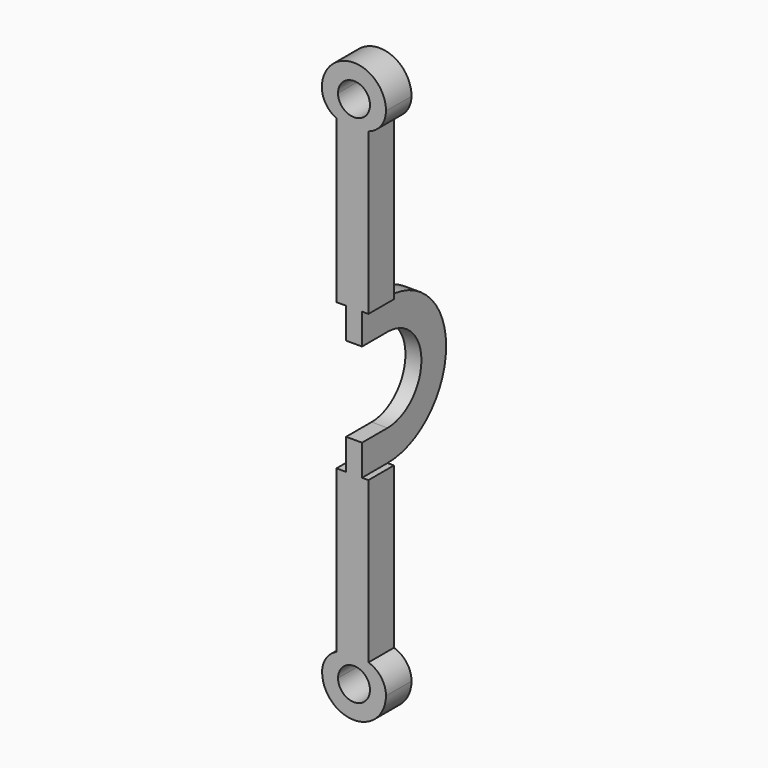
from build123d import *

# Parameters (mm, degrees)
F0_W      = 10
F0_H      = 50
F0_H_2    = 9.678417
F1_DEPTH  = 4
F2_DEPTH  = 5
F4_DEPTH  = 10
F5_DEPTH  = 5
F6_DEPTH  = 10
F7_DEPTH  = 4
F9_DEPTH  = 10
F10_DEPTH = 10
F11_DEPTH = 10
F8_W      = 2
F8_H      = 2.450932
F8_W_2    = 3
F12_DEPTH = 10


with BuildPart() as f1:
    # F0 (on Right) → F1 (new body)
    with BuildSketch(Plane.YZ):
        with BuildLine():
            ThreePointArc((0, 0), (22.928417, 22.928417), (0, 45.856834))
            Line((0, 45.856834), (0, 36.178417))
            ThreePointArc((0, 36.178417), (13.25, 22.928417), (0, 9.678417))
            Line((0, 9.678417), (0, 0))
        make_face()
        with Locations((-5, -25)):
            Rectangle(F0_W, F0_H)
        with Locations((-5, 4.839208)):
            Rectangle(F0_W, F0_H_2)
        with Locations((-5, 41.017625)):
            Rectangle(F0_W, F0_H_2)
        with Locations((-5, 70.856834)):
            Rectangle(F0_W, F0_H)
    extrude(amount=F1_DEPTH)

    # F0 (on Right) → F2 (join)
    with BuildSketch(Plane.YZ):
        with Locations((-5, 70.856834)):
            Rectangle(F0_W, F0_H)
        with Locations((-5, -25)):
            Rectangle(F0_W, F0_H)
        with BuildLine():
            ThreePointArc((0, 0), (22.928417, 22.928417), (0, 45.856834))
            Line((0, 45.856834), (0, 36.178417))
            ThreePointArc((0, 36.178417), (13.25, 22.928417), (0, 9.678417))
            Line((0, 9.678417), (0, 0))
        make_face()
    extrude(amount=F2_DEPTH)

    # F3 (on Front) → F4 (join, through all)
    with BuildSketch(Plane.XZ):
        with BuildLine():
            Line((-7.4979, -57.686251), (-2.503859, -57.686251))
            ThreePointArc((-2.503859, -57.686251), (2.489394, -52.692998), (7.482647, -57.686251))
            Line((7.482647, -57.686251), (12.501129, -57.686251))
            ThreePointArc((12.501129, -57.686251), (10.28152, -52.251641), (4.882479, -49.946863))
            Line((4.882479, -49.946863), (0, -49.946863))
            ThreePointArc((0, -49.946863), (-5.336135, -52.278896), (-7.4979, -57.686251))
        make_face()
        with BuildLine():
            Line((12.500054, 103.57853), (7.508172, 103.57853))
            ThreePointArc((7.508172, 103.57853), (2.492773, 98.583596), (-2.522626, 103.57853))
            Line((-2.522626, 103.57853), (-7.575432, 103.57853))
            ThreePointArc((-7.575432, 103.57853), (-5.361949, 98.175121), (0, 95.863014))
            Line((0, 95.863014), (5.021239, 95.826961))
            ThreePointArc((5.021239, 95.826961), (10.295439, 98.221958), (12.500054, 103.57853))
        make_face()
        with BuildLine():
            ThreePointArc((-2.522626, 103.57853), (2.492773, 108.59393), (7.508172, 103.57853))
            Line((7.508172, 103.57853), (12.500054, 103.57853))
            ThreePointArc((12.500054, 103.57853), (2.462311, 113.635186), (-7.575432, 103.57853))
            Line((-7.575432, 103.57853), (-2.522626, 103.57853))
        make_face()
    extrude(amount=F4_DEPTH)

    # F0 (on Right) → F5 (join)
    with BuildSketch(Plane.YZ):
        with Locations((-5, 4.839208)):
            Rectangle(F0_W, F0_H_2)
        with BuildLine():
            ThreePointArc((0, 0), (22.928417, 22.928417), (0, 45.856834))
            Line((0, 45.856834), (0, 36.178417))
            ThreePointArc((0, 36.178417), (13.25, 22.928417), (0, 9.678417))
            Line((0, 9.678417), (0, 0))
        make_face()
        with Locations((-5, 41.017625)):
            Rectangle(F0_W, F0_H_2)
        with Locations((-5, 70.856834)):
            Rectangle(F0_W, F0_H)
        with Locations((-5, -25)):
            Rectangle(F0_W, F0_H)
    extrude(amount=F5_DEPTH)

    # F3 (on Front) → F6 (join)
    with BuildSketch(Plane.XZ):
        with BuildLine():
            ThreePointArc((7.482647, -57.686251), (2.489394, -62.699619), (-2.503859, -57.686251))
            Line((-2.503859, -57.686251), (-7.4979, -57.686251))
            ThreePointArc((-7.4979, -57.686251), (2.501614, -67.627111), (12.501129, -57.686251))
            Line((12.501129, -57.686251), (7.482647, -57.686251))
        make_face()
    extrude(amount=F6_DEPTH)

    # F0 (on Right) → F7 (join)
    with BuildSketch(Plane.YZ):
        with BuildLine():
            ThreePointArc((0, 0), (22.928417, 22.928417), (0, 45.856834))
            Line((0, 45.856834), (0, 36.178417))
            ThreePointArc((0, 36.178417), (13.25, 22.928417), (0, 9.678417))
            Line((0, 9.678417), (0, 0))
        make_face()
        with Locations((-5, 4.839208)):
            Rectangle(F0_W, F0_H_2)
        with Locations((-5, 41.017625)):
            Rectangle(F0_W, F0_H_2)
    extrude(amount=F7_DEPTH)

    # F8 (on face) → F9 (join, through all)
    with BuildSketch(Plane.XZ.offset(10)):
        with BuildLine():
            Line((7, -2.450932), (5, -2.450932))
            Line((5, -2.450932), (5, -49.949365))
            ThreePointArc((5, -49.949365), (6.010656, -50.045316), (7, -50.272981))
            Line((7, -50.272981), (7, -49.946863))
            Line((7, -49.946863), (7, -2.450932))
        make_face()
    extrude(amount=-F9_DEPTH)

    # F8 (on face) → F10 (join, through all)
    with BuildSketch(Plane.XZ.offset(10)):
        with BuildLine():
            Line((0, -2.450932), (-3, -2.450932))
            Line((-3, -2.450932), (-3, -50.632482))
            ThreePointArc((-3, -50.632482), (-1.534725, -50.137731), (0, -49.946863))
            Line((0, -49.946863), (0, -2.450932))
        make_face()
    extrude(amount=-F10_DEPTH)

    # F8 (on face) → F11 (join, through all)
    with BuildSketch(Plane.XZ.offset(10)):
        Polygon((7, 46.067663), (7, 63.85126), (7, 95.866434), (7, 96.559308), (-3, 96.559308), (-3, 95.866434), (-3, 63.85126), (-3, 46.438996), (-2.991397, 45.816407), (0, 45.816407), (3.942358, 45.816407), (7, 45.816407), align=None)
    extrude(amount=-F11_DEPTH)

    # F8 (on face) → F12 (join, through all)
    with BuildSketch(Plane.XZ.offset(10)):
        with Locations((6, -1.225466)):
            Rectangle(F8_W, F8_H)
        with Locations((-1.5, -1.225466)):
            Rectangle(F8_W_2, F8_H)
    extrude(amount=-F12_DEPTH)


solid = f1.part
